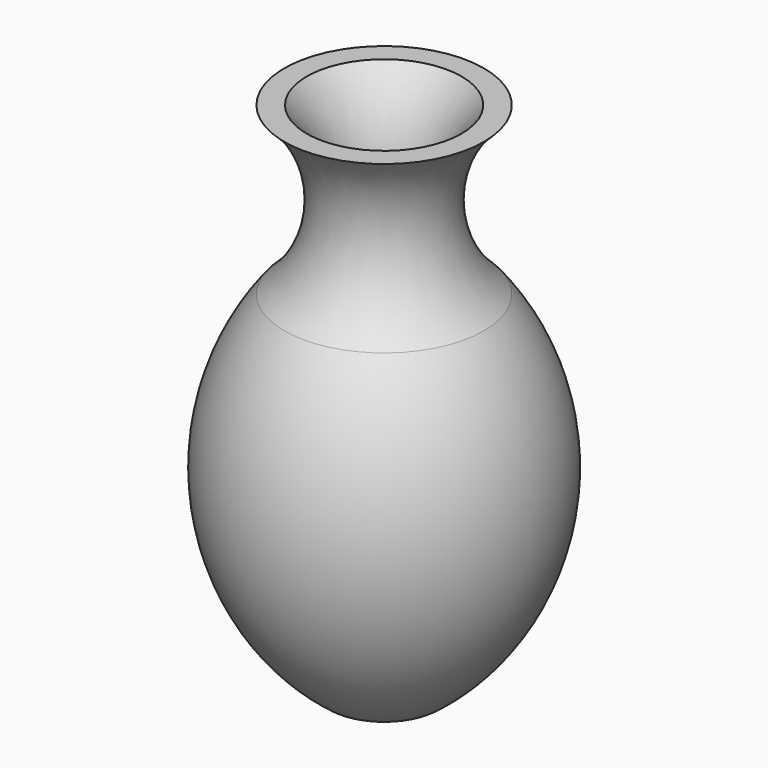
from build123d import *

# Parameters (mm, degrees)
F2_T = -2.54


with BuildPart() as f1:
    # F0 (on Front) → F1 (revolve)
    with BuildSketch(Plane.XZ):
        with BuildLine():
            Line((0, -38.9770306647), (8.7492996827, -38.9770306647))
            ThreePointArc((8.7492996827, -38.9770306647), (24.224149397, -12.5751891652), (16.0027276725, 16.9025385809))
            ThreePointArc((16.0027276725, 16.9025385809), (9.9607821672, 30.2449967712), (16.0027276725, 43.5874549616))
            Line((16.0027276725, 43.5874549616), (0, 43.5874549616))
            Line((0, 43.5874549616), (0, -38.9770306647))
        make_face()
    revolve(axis=Axis((0, 0, 2.3052121484), (0, 0, -1)))

    # F2
    f2_openings = [f1.faces().sort_by_distance(p)[0] for p in [
        (0, 0, 43.587455),
    ]]
    offset(amount=F2_T, openings=f2_openings, kind=Kind.INTERSECTION)


solid = f1.part
